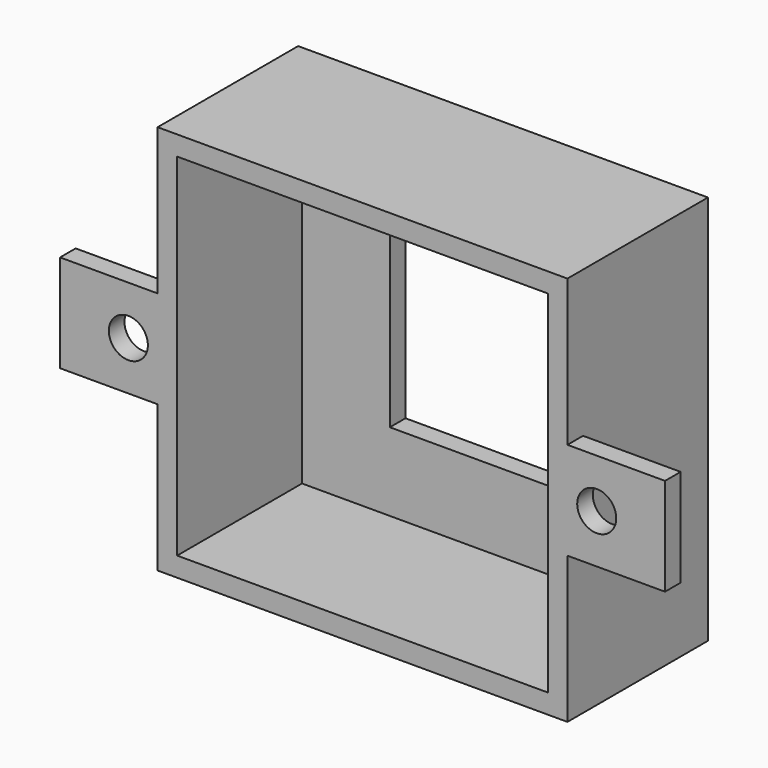
from build123d import *

# Parameters (mm, degrees)
F0_W     = 21
F0_H     = 20
F0_W_2   = 19
F0_H_2   = 18
F0_W_3   = 18
F0_H_3   = 17
F0_W_4   = 10
F0_H_4   = 10
F1_DEPTH = 1
F2_W     = 21
F2_H     = 20
F2_W_2   = 19
F2_H_2   = 18
F3_DEPTH = 7
F4_W     = 19
F4_H     = 18
F4_W_2   = 5
F4_H_2   = 5
F5_DEPTH = 1
F7_D     = 2


with BuildPart() as f1:
    # F0 (on Front) → F1 (new body)
    with BuildSketch(Plane.XZ):
        Rectangle(F0_W, F0_H)
        Rectangle(F0_W_2, F0_H_2, mode=Mode.SUBTRACT)
        Rectangle(F0_W_2, F0_H_2)
        Rectangle(F0_W_3, F0_H_3, mode=Mode.SUBTRACT)
        Rectangle(F0_W_3, F0_H_3)
        Rectangle(F0_W_4, F0_H_4, mode=Mode.SUBTRACT)
    extrude(amount=F1_DEPTH)

    # F2 (on face) → F3 (join)
    with BuildSketch(Plane.XZ.offset(1)):
        Rectangle(F2_W, F2_H)
        Rectangle(F2_W_2, F2_H_2, mode=Mode.SUBTRACT)
    extrude(amount=F3_DEPTH)

    # F4 (on face) → F5 (join)
    with BuildSketch(Plane.XZ.offset(8)):
        Polygon((10.5, 2.5), (10.5, 10), (-10.5, 10), (-10.5, 2.5), (-10.5, -2.5), (-10.5, -10), (10.5, -10), (10.5, -2.5), align=None)
        Rectangle(F4_W, F4_H, mode=Mode.SUBTRACT)
        with Locations((13, 0)):
            Rectangle(F4_W_2, F4_H_2)
        with Locations((-13, 0)):
            Rectangle(F4_W_2, F4_H_2)
    extrude(amount=F5_DEPTH)

    # F7 (through all)
    with Locations(Plane.XZ.offset(9)):
        with Locations((-12, 0), (12, 0)):
            Hole(F7_D / 2)


solid = f1.part
